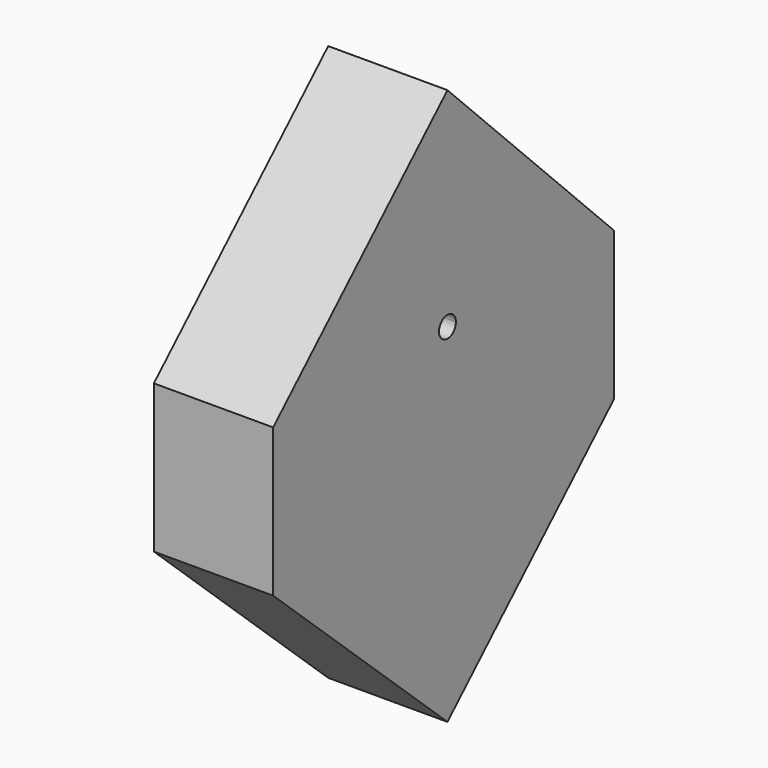
from build123d import *

# Parameters (mm, degrees)
F1_DEPTH = 25
F2_DEPTH = 25


with BuildPart() as f1:
    # F0 (on Right) → F1 (new body)
    with BuildSketch(Plane.YZ):
        with BuildLine():
            Line((-45.669921, 31.04753), (-45.669921, 0))
            Line((-45.669921, 0), (43.666851, 0))
            Line((43.666851, 0), (43.666851, 31.04753))
            Line((43.666851, 31.04753), (2.21195, 31.04753))
            ThreePointArc((2.21195, 31.04753), (0, 28.835581), (-2.21195, 31.04753))
            Line((-2.21195, 31.04753), (-45.669921, 31.04753))
        make_face()
        Polygon((43.666851, 0), (-45.669921, 0), (0, -41.86409), align=None)
    extrude(amount=F1_DEPTH)

    # F0 (on Right) → F2 (join)
    with BuildSketch(Plane.YZ):
        with BuildLine():
            Line((-45.669921, 31.04753), (-45.669921, 0))
            Line((-45.669921, 0), (43.666851, 0))
            Line((43.666851, 0), (43.666851, 31.04753))
            Line((43.666851, 31.04753), (2.21195, 31.04753))
            ThreePointArc((2.21195, 31.04753), (0, 28.835581), (-2.21195, 31.04753))
            Line((-2.21195, 31.04753), (-45.669921, 31.04753))
        make_face()
        Polygon((43.666851, 0), (-45.669921, 0), (0, -41.86409), align=None)
        with BuildLine():
            Line((0, 74.714378), (-45.669921, 31.04753))
            Line((-45.669921, 31.04753), (-2.21195, 31.04753))
            ThreePointArc((-2.21195, 31.04753), (0, 33.25948), (2.21195, 31.04753))
            Line((2.21195, 31.04753), (43.666851, 31.04753))
            Line((43.666851, 31.04753), (0, 74.714378))
        make_face()
    extrude(amount=F2_DEPTH)


solid = f1.part
